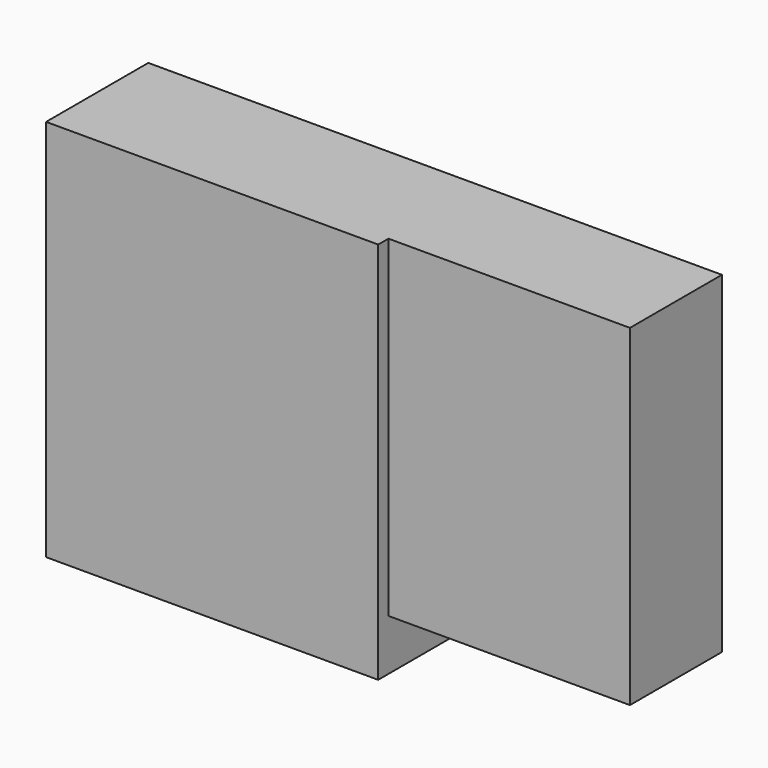
from build123d import *

# Parameters (mm, degrees)
F1_DEPTH = 10
F0_W     = 18.908922
F0_H     = 26
F2_DEPTH = 9
F4_DEPTH = 1


with BuildPart() as f1:
    # F0 (on Front) → F1 (new body)
    with BuildSketch(Plane.XZ):
        Polygon((0, -26), (0, 0), (-26, 0), (-26, -30), (0, -30), align=None)
    extrude(amount=F1_DEPTH)

    # F0 (on Front) → F2 (join)
    with BuildSketch(Plane.XZ):
        with Locations((9.454461, -13)):
            Rectangle(F0_W, F0_H)
    extrude(amount=F2_DEPTH)

    # F3 (on face) → F4 (cut)
    with BuildSketch(Plane.XZ):
        Polygon((21.377379, 0), (18.908922, 0), (18.908922, -26), (0, -26), (0, -30.423839), (21.377379, -30.423839), align=None)
    extrude(amount=F4_DEPTH, mode=Mode.SUBTRACT)


solid = f1.part
